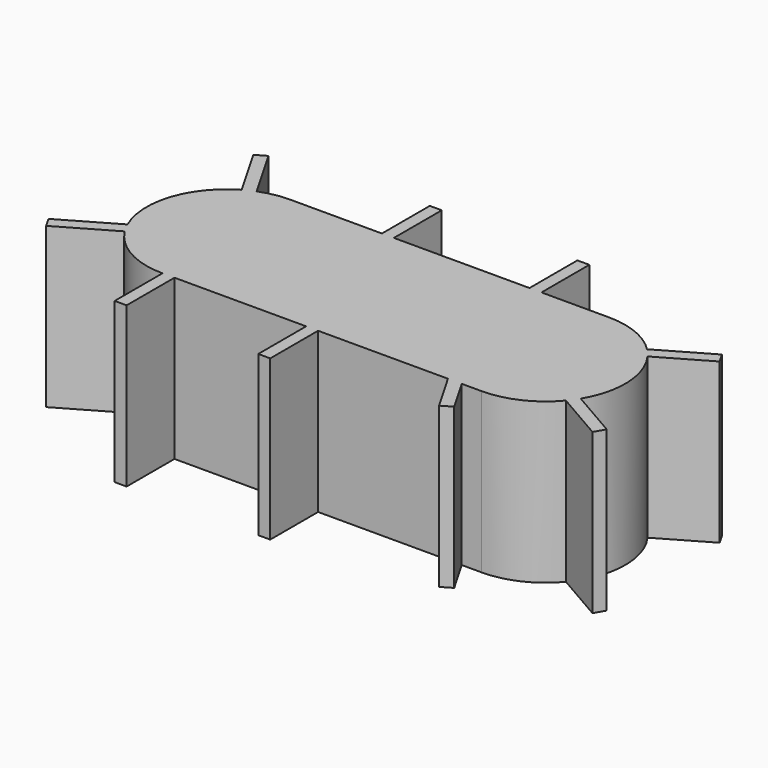
from build123d import *

# Parameters (mm, degrees)
BOX018_W               = 0.3
BOX018_H               = 3.5
BOX018_DEPTH           = 4
BOX018_PLACEMENT_ANGLE = 120
BOX017_W               = 0.3
BOX017_H               = 3.5
BOX017_DEPTH           = 4
BOX017_PLACEMENT_ANGLE = 120
BOX016_W               = 0.3
BOX016_H               = 3.5
BOX016_DEPTH           = 4
BOX016_PLACEMENT_ANGLE = 120
BOX014_W               = 0.3
BOX014_H               = 3.5
BOX014_DEPTH           = 4
BOX003_W               = 0.3
BOX003_H               = 3.5
BOX003_DEPTH           = 4
BOX003_PLACEMENT_ANGLE = 30
BOX001_W               = 0.3
BOX001_H               = 3.5
BOX001_DEPTH           = 4
BOX001_PLACEMENT_ANGLE = 30
BOX002_W               = 0.3
BOX002_H               = 3.5
BOX002_DEPTH           = 4
BOX015_W               = 0.3
BOX015_H               = 3.5
BOX015_DEPTH           = 4
BOX004_W               = 0.3
BOX004_H               = 3.5
BOX004_DEPTH           = 4
BOX_W                  = 8
BOX_H                  = 4
BOX_DEPTH              = 4
CYLINDER001_R          = 2
CYLINDER001_DEPTH      = 4
CYLINDER_R             = 2
CYLINDER_DEPTH         = 4


with BuildPart() as cube018:
    # Box018 → Box018 (new body)
    with BuildSketch(Plane.XY):
        with Locations((0.15, 1.75)):
            Rectangle(BOX018_W, BOX018_H)
    extrude(amount=BOX018_DEPTH)


with BuildPart() as cube018_1:
    # Box018 placement: moved
    add(cube018.part.moved(Location((7.892915, 0.015358, 0))).rotate(Axis((7.892915, 0.015358, 0), (0, 0, -1)), BOX018_PLACEMENT_ANGLE))


with BuildPart() as cube017:
    # Box017 → Box017 (new body)
    with BuildSketch(Plane.XY):
        with Locations((0.15, 1.75)):
            Rectangle(BOX017_W, BOX017_H)
    extrude(amount=BOX017_DEPTH)


with BuildPart() as cube017_1:
    # Box017 placement: moved
    add(cube017.part.moved(Location((10.852236, 1.891667, 0))).rotate(Axis((10.852236, 1.891667, 0), (0, 0, 1)), BOX017_PLACEMENT_ANGLE))


with BuildPart() as cube016:
    # Box016 → Box016 (new body)
    with BuildSketch(Plane.XY):
        with Locations((0.15, 1.75)):
            Rectangle(BOX016_W, BOX016_H)
    extrude(amount=BOX016_DEPTH)


with BuildPart() as cube016_1:
    # Box016 placement: moved
    add(cube016.part.moved(Location((-0.004428, -0.104039, 0))).rotate(Axis((-0.004428, -0.104039, 0), (0, 0, 1)), BOX016_PLACEMENT_ANGLE))


with BuildPart() as cube014:
    # Box014 → Box014 (new body)
    with BuildSketch(Plane(origin=(2.3, 0, 0), x_dir=(1, 0, 0), z_dir=(0, 0, 1))):
        with Locations((0.15, 1.75)):
            Rectangle(BOX014_W, BOX014_H)
    extrude(amount=BOX014_DEPTH)


with BuildPart() as cube003:
    # Box003 → Box003 (new body)
    with BuildSketch(Plane.XY):
        with Locations((0.15, 1.75)):
            Rectangle(BOX003_W, BOX003_H)
    extrude(amount=BOX003_DEPTH)


with BuildPart() as cube003_1:
    # Box003 placement: moved
    add(cube003.part.moved(Location((7.7321, -3, 0))).rotate(Axis((7.7321, -3, 0), (0, 0, 1)), BOX003_PLACEMENT_ANGLE))


with BuildPart() as cube001:
    # Box001 → Box001 (new body)
    with BuildSketch(Plane.XY):
        with Locations((0.15, 1.75)):
            Rectangle(BOX001_W, BOX001_H)
    extrude(amount=BOX001_DEPTH)


with BuildPart() as cube001_1:
    # Box001 placement: moved
    add(cube001.part.rotate(Axis((0, 0, 0), (0, 0, 1)), BOX001_PLACEMENT_ANGLE))


with BuildPart() as cube002:
    # Box002 → Box002 (new body)
    with BuildSketch(Plane(origin=(6, 0, 0), x_dir=(1, 0, 0), z_dir=(0, 0, 1))):
        with Locations((0.15, 1.75)):
            Rectangle(BOX002_W, BOX002_H)
    extrude(amount=BOX002_DEPTH)


with BuildPart() as cube015:
    # Box015 → Box015 (new body)
    with BuildSketch(Plane(origin=(3.6, -3.5, 0), x_dir=(1, 0, 0), z_dir=(0, 0, 1))):
        with Locations((0.15, 1.75)):
            Rectangle(BOX015_W, BOX015_H)
    extrude(amount=BOX015_DEPTH)


with BuildPart() as fusion008:
    # Box004 → Box004 (new body)
    with BuildSketch(Plane(origin=(0, -3.5, 0), x_dir=(1, 0, 0), z_dir=(0, 0, 1))):
        with Locations((0.15, 1.75)):
            Rectangle(BOX004_W, BOX004_H)
    extrude(amount=BOX004_DEPTH)

    # Fusion008: union Cube018, Cube017, Cube016, Cube014, Cube003, Cube001, Cube002, Cube015
    add(cube018_1.part)
    add(cube017_1.part)
    add(cube016_1.part)
    add(cube014.part)
    add(cube003_1.part)
    add(cube001_1.part)
    add(cube002.part)
    add(cube015.part)


with BuildPart() as cube:
    # Box → Box (new body)
    with BuildSketch(Plane(origin=(0, -2, 0), x_dir=(1, 0, 0), z_dir=(0, 0, 1))):
        with Locations((4, 2)):
            Rectangle(BOX_W, BOX_H)
    extrude(amount=BOX_DEPTH)


with BuildPart() as cylinder001:
    # Cylinder001 → Cylinder001 (new body)
    with BuildSketch(Plane(origin=(8, 0, 0), x_dir=(1, 0, 0), z_dir=(0, 0, 1))):
        Circle(CYLINDER001_R)
    extrude(amount=CYLINDER001_DEPTH)


with BuildPart() as fusion014:
    # Cylinder → Cylinder (new body)
    with BuildSketch(Plane.XY):
        Circle(CYLINDER_R)
    extrude(amount=CYLINDER_DEPTH)

    # Fusion: union Cube, Cylinder001
    add(cube.part)
    add(cylinder001.part)

    # Fusion014: union Fusion008
    add(fusion008.part)


solid = fusion014.part
